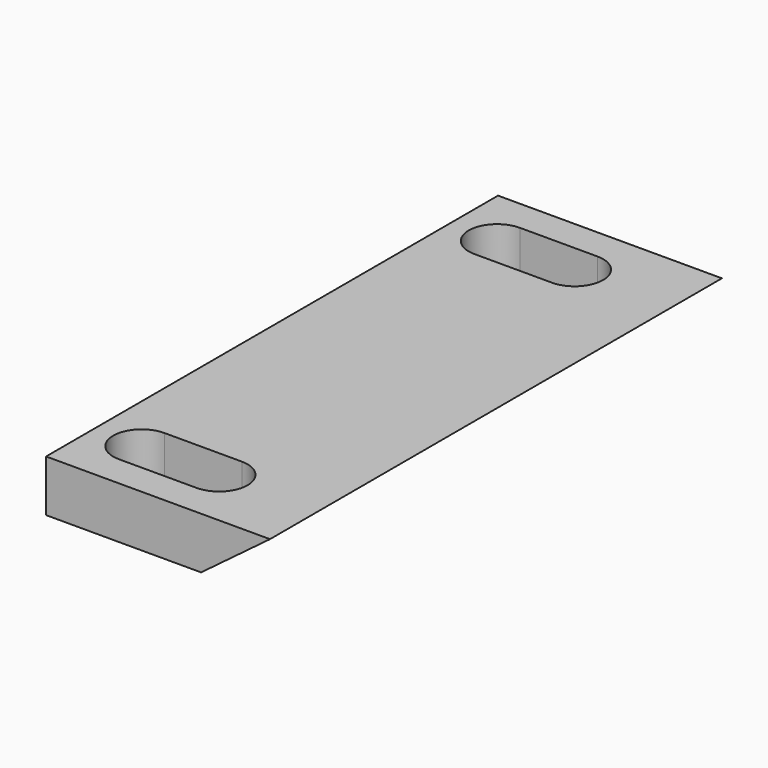
from build123d import *

# Parameters (mm, degrees)
F0_W     = 13
F0_H     = 32.8
F1_DEPTH = 3
F3_DEPTH = 32.801


with BuildPart() as f1:
    # F0 (on Top) → F1 (new body)
    with BuildSketch(Plane.XY):
        with Locations((1.5, 0)):
            Rectangle(F0_W, F0_H)
        with BuildLine():
            Line((2.25, -14.55), (-2.25, -14.55))
            ThreePointArc((-2.25, -14.55), (-3.9, -12.9), (-2.25, -11.25))
            Line((-2.25, -11.25), (2.25, -11.25))
            ThreePointArc((2.25, -11.25), (3.9, -12.9), (2.25, -14.55))
        make_face(mode=Mode.SUBTRACT)
        with BuildLine():
            ThreePointArc((-2.25, 11.25), (-3.9, 12.9), (-2.25, 14.55))
            Line((-2.25, 14.55), (2.25, 14.55))
            ThreePointArc((2.25, 14.55), (3.9, 12.9), (2.25, 11.25))
            Line((2.25, 11.25), (-2.25, 11.25))
        make_face(mode=Mode.SUBTRACT)
    extrude(amount=F1_DEPTH)

    # F2 (on face) → F3 (cut, through all)
    with BuildSketch(Plane(origin=(0, 16.4, 0), x_dir=(-1, 0, 0), z_dir=(0, 1, 0))):
        Polygon((-4, 0), (-8, 3), (-8, 0), align=None)
    extrude(amount=-F3_DEPTH, mode=Mode.SUBTRACT)


solid = f1.part
